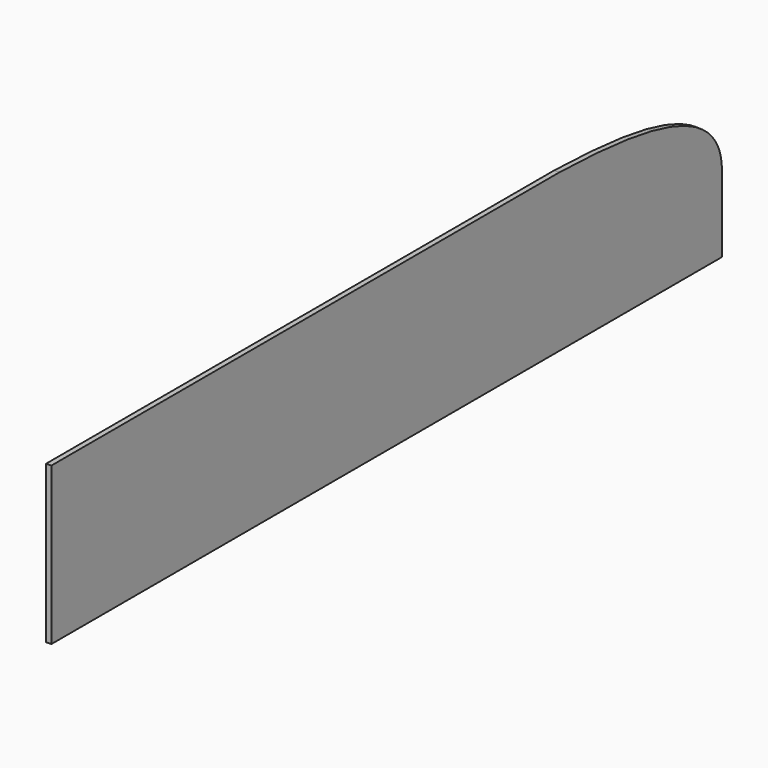
from build123d import *

# Parameters (mm, degrees)
F1_DEPTH = 5.08


with BuildPart() as f1:
    # F0 (on Right) → F1 (new body)
    with BuildSketch(Plane.YZ):
        with BuildLine():
            Line((302.4789094925, 77.9114439979), (-194.5444664261, 77.9114439979))
            Line((-194.5444664261, 77.9114439979), (-194.5444664261, -74.4885560021))
            Line((-194.5444664261, -74.4885560021), (594.97461549, -74.4885560021))
            add(Edge.make_bspline(
                [(618.2555335739, -4.026341474), (617.4012379029, -24.8084723588), (607.6495818813, -50.133957852), (594.97461549, -74.4885560021)],
                knots=[0.538916857, 0.538916857, 0.538916857, 0.538916857, 0.6700074403, 0.6700074403, 0.6700074403, 0.6700074403], degree=3))
            Line((618.2555335739, -4.026341474), (618.2555335739, 1.7114439979))
            add(Edge.make_bspline(
                [(421.1525156221, 77.9114439979), (529.2598396209, 75.2044623304), (615.6602856832, 60.8814148969), (618.2555335739, 1.7114439979)],
                knots=[0.1363950266, 0.1363950266, 0.1363950266, 0.1363950266, 0.5265894187, 0.5265894187, 0.5265894187, 0.5265894187], degree=3))
            Line((421.1525156221, 77.9114439979), (302.4789094925, 77.9114439979))
        make_face()
        with BuildLine():
            add(Edge.make_bspline(
                [(618.2555335739, -4.026341474), (617.4012379029, -24.8084723588), (607.6495818813, -50.133957852), (594.97461549, -74.4885560021)],
                knots=[0.538916857, 0.538916857, 0.538916857, 0.538916857, 0.6700074403, 0.6700074403, 0.6700074403, 0.6700074403], degree=3))
            Line((594.97461549, -74.4885560021), (618.2555335739, -74.4885560021))
            Line((618.2555335739, -74.4885560021), (618.2555335739, -4.026341474))
        make_face()
    extrude(amount=F1_DEPTH)


solid = f1.part
